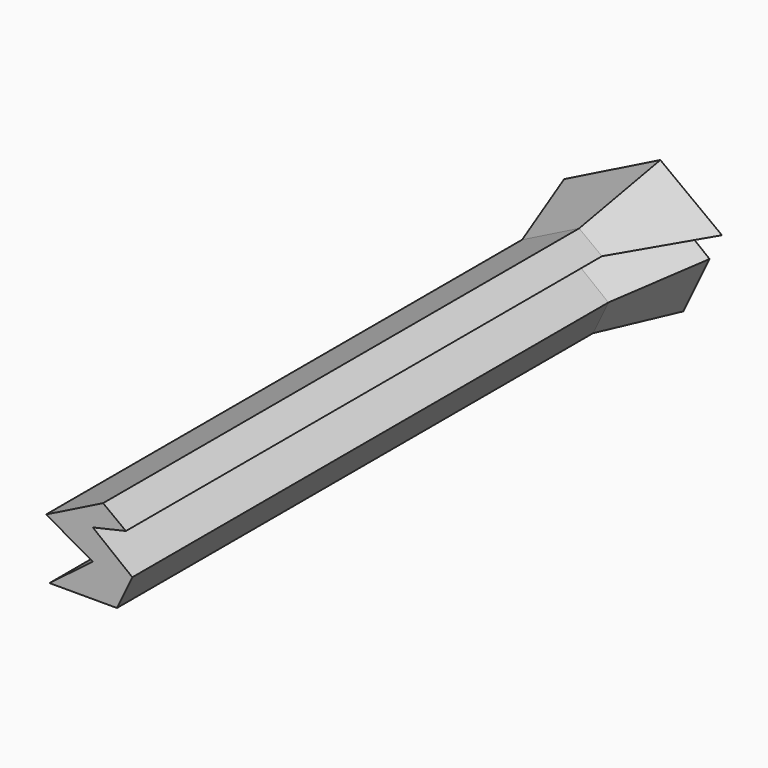
from build123d import *

# Parameters (mm, degrees)
F1_DEPTH = 150
F2_DEPTH = 25
F2_TAPER = -10


with BuildPart() as f1:
    # F0 (on Front) → F1 (new body)
    with BuildSketch(Plane.XZ):
        Polygon((47.8535592556, -25.4356767982), (42.105384171, -21.1245436221), (27.7349483222, -28.3097643405), (39.5187065005, -34.9201671779), (28.5936295986, -43.255019933), (45.6024929881, -43.255019933), (49.4760833681, -35.1725630462), (39.5187065005, -27.3510906845), align=None)
    extrude(amount=F1_DEPTH)

    # F1_face (on face) → F2 (join)
    with BuildSketch(Plane(origin=(39.6376889247, 0, -33.4798158905), x_dir=(1, 0, 0), z_dir=(0, 1, 0))):
        Polygon((2.4676952463, -12.3552722683), (8.2158703309, -8.0441390922), (-0.1189824242, -6.1287252059), (9.8383944433, 1.6927471558), (5.9648040634, 9.7752040425), (-11.0440593261, 9.7752040425), (-0.1189824242, 1.4403512875), (-11.9027406026, -5.1700515499), align=None)
    extrude(amount=F2_DEPTH, taper=F2_TAPER)


solid = f1.part
